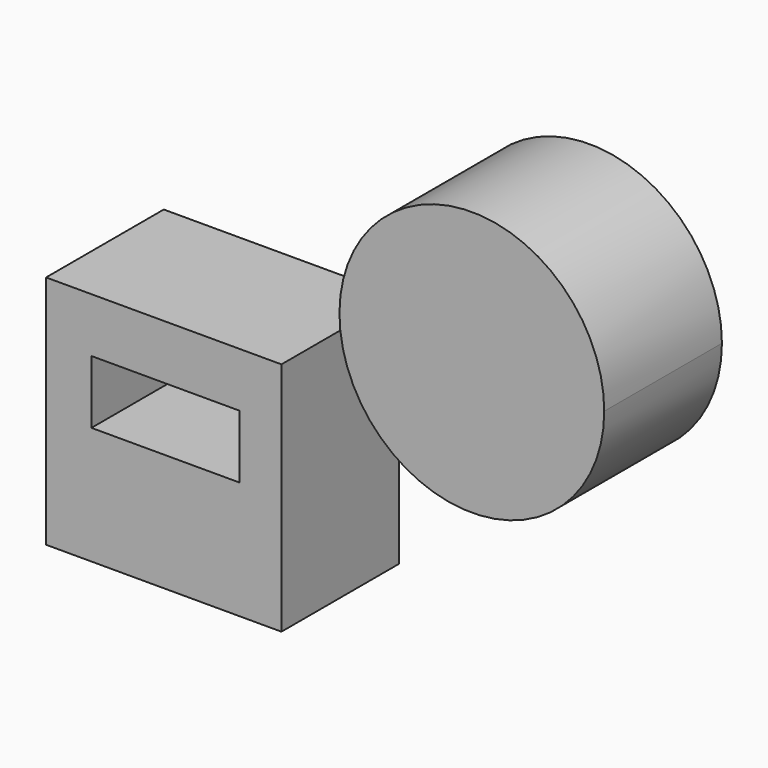
from build123d import *

# Parameters (mm, degrees)
F0_W     = 40
F0_H     = 40
F0_W_2   = 25.165111
F0_H_2   = 10.750562
F1_DEPTH = 25
F2_DEPTH = 12.5


with BuildPart() as f1:
    # F0 (on Front) → F1 (new body)
    with BuildSketch(Plane.XZ):
        Rectangle(F0_W, F0_H)
        with Locations((0.293821, 5.375281)):
            Rectangle(F0_W_2, F0_H_2, mode=Mode.SUBTRACT)
    extrude(amount=F1_DEPTH)


with BuildPart() as f2:
    # F0 (on Front) → F2 (new body, symmetric)
    with BuildSketch(Plane.XZ):
        with BuildLine():
            ThreePointArc((64.86068, 22.5), (41.10874, 44.965143), (20, 20))
            ThreePointArc((20, 20), (43.612619, 0.034857), (64.86068, 22.5))
        make_face()
    extrude(amount=F2_DEPTH, both=True)


solid = Compound([f1.part, f2.part])
